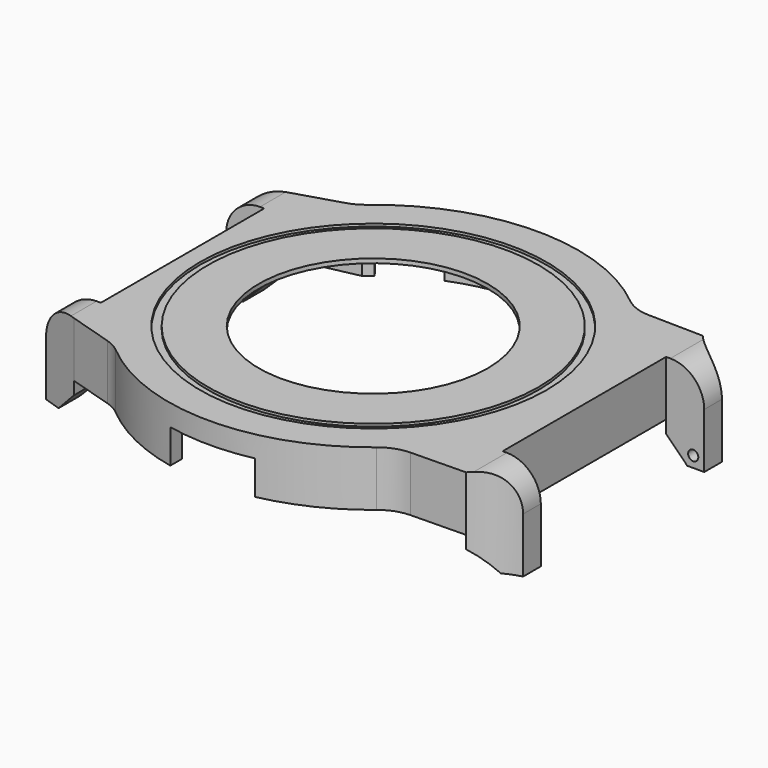
from build123d import *

# Parameters (mm, degrees)
PAD_DEPTH       = 6.5
POCKET_DEPTH    = 6
SKETCH002_R     = 13.5
POCKET001_DEPTH = 1
SKETCH003_W     = 5.4
SKETCH003_H     = 6.5
PAD001_DEPTH    = 4.5
POCKET002_DEPTH = 10
SKETCH010_W     = 3.95
SKETCH010_H     = 6.5
PAD002_DEPTH    = 4.5
POCKET005_DEPTH = 10
SKETCH014_R     = 20.45
SKETCH014_R_2   = 19.5
POCKET008_DEPTH = 0.3
SKETCH015_R     = 2.2
SKETCH015_R_2   = 0.975
PAD003_DEPTH    = 2
POCKET009_DEPTH = 4
POCKET010_DEPTH = 4
PAD004_DEPTH    = 4
SKETCH019_R     = 0.6
POCKET011_DEPTH = 2
SKETCH020_R     = 0.6
POCKET012_DEPTH = 2
FILLET_R        = 4
CHAMFER_SIZE    = 2.5
FILLET001_R     = 5


with BuildPart() as part:
    # Sketch → Pad (new body)
    with BuildSketch(Plane.XY):
        with BuildLine():
            Line((-22.5019915649, 16), (-22.5019915649, -16))
            Line((-22.5019915649, -16), (-16.2858834577, -17.9000000001))
            ThreePointArc((-16.2858834577, -17.9000000001), (0.2206895737, -24.1989937004), (16.6096357576, -17.5999999999))
            Line((16.6096357576, -17.5999999999), (24.9082802252, -17.45))
            Line((24.9082802252, 17.45), (24.9082802252, -17.45))
            Line((16.6096357576, 17.6), (24.9082802252, 17.45))
            ThreePointArc((16.6096357576, 17.6), (0.2206895736, 24.1989937004), (-16.2858834578, 17.9))
            Line((-22.5019915649, 16), (-16.2858834578, 17.9))
        make_face()
    extrude(amount=PAD_DEPTH)

    # Sketch001 → Pocket (cut)
    with BuildSketch(Plane.XY):
        with BuildLine():
            Line((-14.8539557021, 16.9), (-21.2122180433, 15.55))
            Line((-21.2122180433, 15.55), (-21.2122180433, -15.55))
            Line((-21.2122180433, -15.55), (-14.8539557021, -16.9))
            ThreePointArc((-14.8539557021, -16.9), (-0.0760301383, -22.4998715423), (14.739402973, -17))
            Line((14.739402973, -17), (23.6191552218, -16.4))
            Line((23.6191552218, 16.4), (23.6191552218, -16.4))
            Line((14.739402973, 17), (23.6191552218, 16.4))
            ThreePointArc((14.739402973, 17), (-0.0760301383, 22.4998715423), (-14.8539557021, 16.9))
        make_face()
    extrude(amount=POCKET_DEPTH, mode=Mode.SUBTRACT)

    # Sketch002 (on Face19 of Pocket) → Pocket001 (cut)
    with BuildSketch(Plane(origin=(0, 0, 6), x_dir=(1, 0, 0), z_dir=(0, 0, -1))):
        Circle(SKETCH002_R)
    extrude(amount=-POCKET001_DEPTH, mode=Mode.SUBTRACT)

    # Sketch003 (on Face7 of Pad) → Pad001 (join)
    with BuildSketch(Plane.YZ.offset(24.9082802252)):
        with Locations((-14.75, 3.25)):
            Rectangle(SKETCH003_W, SKETCH003_H)
        with Locations((14.75, 3.25)):
            Rectangle(SKETCH003_W, SKETCH003_H)
    extrude(amount=PAD001_DEPTH)

    # Sketch006 (on Face22 of Pad001) → Pocket002 (cut)
    with BuildSketch(Plane.XY.offset(6.5)):
        with BuildLine():
            ThreePointArc((24.9082802252, 17.45), (26.9423471239, 15.7065020586), (29.4082802252, 14.6594169811))
            Line((29.4082802252, 17.45), (29.4082802252, 14.6594169811))
            Line((29.4082802252, 17.45), (24.9082802252, 17.45))
        make_face()
        with BuildLine():
            ThreePointArc((29.4082802252, -14.6594169811), (26.9423471239, -15.7065020586), (24.9082802252, -17.45))
            Line((29.4082802252, -17.45), (24.9082802252, -17.45))
            Line((29.4082802252, -14.6594169811), (29.4082802252, -17.45))
        make_face()
    extrude(amount=-POCKET002_DEPTH, mode=Mode.SUBTRACT)

    # Sketch010 (on Face3 of Pad) → Pad002 (join)
    with BuildSketch(Plane(origin=(-22.5019915649, 0, 0), x_dir=(0, -1, 0), z_dir=(-1, 0, 0))):
        with Locations((-14.025, 3.25)):
            Rectangle(SKETCH010_W, SKETCH010_H)
        with Locations((14.025, 3.25)):
            Rectangle(SKETCH010_W, SKETCH010_H)
    extrude(amount=PAD002_DEPTH)

    # Sketch011 (on Face28 of Pad002) → Pocket005 (cut)
    with BuildSketch(Plane.XY.offset(6.5)):
        Polygon((-27.0019915649, 16), (-22.5019915649, 16), (-27.0019915649, 14.5), align=None)
        Polygon((-22.5019915649, -16), (-27.0019915649, -14.5), (-27.0019915649, -16), align=None)
    extrude(amount=-POCKET005_DEPTH, mode=Mode.SUBTRACT)

    # Sketch014 (on Face10 of Pad) → Pocket008 (cut)
    with BuildSketch(Plane.XY.offset(6.5)):
        Circle(SKETCH014_R)
        Circle(SKETCH014_R_2, mode=Mode.SUBTRACT)
    extrude(amount=-POCKET008_DEPTH, mode=Mode.SUBTRACT)

    # Sketch015 (on Face19 of Pocket) → Pad003 (join)
    with BuildSketch(Plane(origin=(0, 0, 6), x_dir=(1, 0, 0), z_dir=(0, 0, -1))):
        with Locations((-18.42, 13.32)):
            Circle(SKETCH015_R)
        with Locations((-18.42, 13.32)):
            Circle(SKETCH015_R_2, mode=Mode.SUBTRACT)
        with Locations((7.27, 18.56)):
            Circle(SKETCH015_R)
        with Locations((7.27, 18.56)):
            Circle(SKETCH015_R_2, mode=Mode.SUBTRACT)
        with Locations((5.37, -19.79)):
            Circle(SKETCH015_R)
        with Locations((5.37, -19.79)):
            Circle(SKETCH015_R_2, mode=Mode.SUBTRACT)
        with Locations((-18.42, -13.32)):
            Circle(SKETCH015_R)
        with Locations((-18.42, -13.32)):
            Circle(SKETCH015_R_2, mode=Mode.SUBTRACT)
    extrude(amount=PAD003_DEPTH)

    # Sketch016 → Pocket009 (cut)
    with BuildSketch(Plane(origin=(0, 0, 0), x_dir=(-1, 0, 0), z_dir=(0, 0, 1))):
        with BuildLine():
            Line((-5, 23.6778377391), (-5, 21.9374109685))
            ThreePointArc((5, 21.9374109685), (0, 22.5), (-5, 21.9374109685))
            Line((5, 23.6778377391), (5, 21.9374109685))
            ThreePointArc((5, 23.6778377391), (0, 24.2), (-5, 23.6778377391))
        make_face()
    extrude(amount=POCKET009_DEPTH, mode=Mode.SUBTRACT)

    # Sketch017 → Pocket010 (cut)
    with BuildSketch(Plane(origin=(0, 0, 0), x_dir=(-1, 0, 0), z_dir=(0, 0, 1))):
        with BuildLine():
            Line((-3.499984119, -22.2261132717), (-3.5, -23.9455632634))
            ThreePointArc((-3.5, -23.9455632634), (0, -24.2000019575), (3.5, -23.9455632634))
            Line((3.5000158811, -22.2261082701), (3.5, -23.9455632634))
            ThreePointArc((-3.499984119, -22.2261132717), (1.60767e-05, -22.5), (3.5000158811, -22.2261082701))
        make_face()
        with BuildLine():
            ThreePointArc((-13.9498796389, -17.6536358312), (-11.25, -19.4855715851), (-8.3135572795, -20.9077680626))
            Line((-8.3135572795, -20.9077680626), (-8.9416927184, -22.487466094))
            ThreePointArc((-15.0038705449, -18.987466094), (-12.1, -20.9578147716), (-8.9416927184, -22.487466094))
            Line((-13.9498796389, -17.6536358312), (-15.0038705449, -18.987466094))
        make_face()
        with BuildLine():
            ThreePointArc((8.3135572795, -20.9077680626), (11.25, -19.4855715851), (13.9498796389, -17.6536358312))
            Line((13.9498796389, -17.6536358312), (15.0038705449, -18.987466094))
            ThreePointArc((8.9416927184, -22.487466094), (12.1, -20.9578147716), (15.0038705449, -18.987466094))
            Line((8.3135572795, -20.9077680626), (8.9416927184, -22.487466094))
        make_face()
    extrude(amount=POCKET010_DEPTH, mode=Mode.SUBTRACT)

    # Sketch018 (on Face8 of Pocket005) → Pad004 (join)
    with BuildSketch(Plane(origin=(0, 0, 0), x_dir=(1, 0, 0), z_dir=(0, 0, -1))):
        Polygon((-27.0019915649, 14.5), (-27.0019915649, 12.05), (-22.5019915649, 12.05), (-22.5019915649, 16), align=None)
        Polygon((-27.0019915649, -12.05), (-22.5019915649, -12.05), (-22.5019915649, -16), (-27.0019915649, -14.5), align=None)
        with BuildLine():
            Line((24.9082802252, 17.45), (24.9082802252, 12.05))
            Line((29.4082802252, 12.05), (24.9082802252, 12.05))
            Line((29.4082802252, 14.6594169811), (29.4082802252, 12.05))
            ThreePointArc((24.9082802252, 17.45), (26.9423471239, 15.7065020586), (29.4082802252, 14.6594169811))
        make_face()
        with BuildLine():
            Line((24.9082802252, -12.05), (24.9082802252, -17.45))
            ThreePointArc((29.4082802252, -14.6594169811), (26.9423471239, -15.7065020586), (24.9082802252, -17.45))
            Line((29.4082802252, -12.05), (29.4082802252, -14.6594169811))
            Line((24.9082802252, -12.05), (29.4082802252, -12.05))
        make_face()
    extrude(amount=PAD004_DEPTH)

    # Sketch019 (on Face64 of Pad004) → Pocket011 (cut)
    with BuildSketch(Plane.XZ.offset(-12.05)):
        with Locations((28.1082802252, -2.7)):
            Circle(SKETCH019_R)
        with Locations((-25.7019915649, -2.7)):
            Circle(SKETCH019_R)
    extrude(amount=-POCKET011_DEPTH, mode=Mode.SUBTRACT)

    # Sketch020 (on Face50 of Pocket011) → Pocket012 (cut)
    with BuildSketch(Plane(origin=(0, -12.05, 0), x_dir=(-1, 0, 0), z_dir=(0, 1, 0))):
        with Locations((-28.1082802252, -2.7)):
            Circle(SKETCH020_R)
        with Locations((25.7019915649, -2.7)):
            Circle(SKETCH020_R)
    extrude(amount=-POCKET012_DEPTH, mode=Mode.SUBTRACT)

    # Fillet
    fillet_edges = [part.edges().sort_by_distance(p)[0] for p in [
        (29.40828, -13.354708, 6.5),
        (29.40828, 13.354708, 6.5),
        (-27.001992, -13.275, 6.5),
        (-27.001992, 13.275, 6.5),
    ]]
    fillet(fillet_edges, radius=FILLET_R)

    # Chamfer
    chamfer_edges = [part.edges().sort_by_distance(p)[0] for p in [
        (24.90828, -14.75, -4),
        (24.90828, 14.75, -4),
        (-22.501992, -14.025, -4),
        (-22.501992, 14.025, -4),
    ]]
    chamfer(chamfer_edges, length=CHAMFER_SIZE)

    # Fillet001
    fillet001_edges = [part.edges().sort_by_distance(p)[0] for p in [
        (16.609636, -17.6, 3.25),
        (-16.285883, -17.9, 3.25),
        (16.609636, 17.6, 3.25),
        (-16.285883, 17.9, 3.25),
    ]]
    fillet(fillet001_edges, radius=FILLET001_R)


solid = part.part
